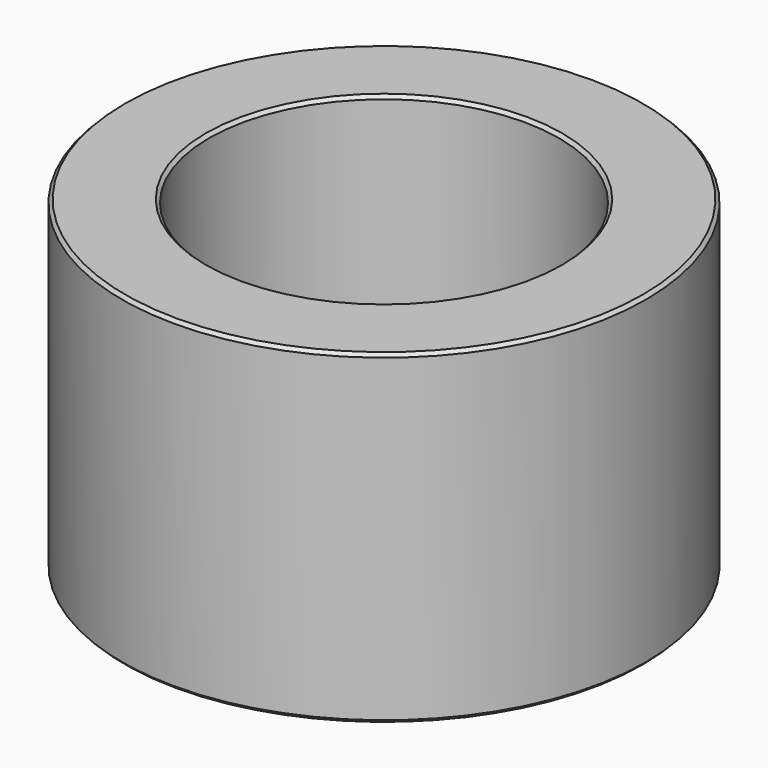
from build123d import *

# Parameters (mm, degrees)
F0_R     = 40.239299
F1_DEPTH = 50
F2_R     = 26.870231
F3_DEPTH = 62
F4_SIZE  = 0.5


with BuildPart() as f1:
    # F0 (on Top) → F1 (new body)
    with BuildSketch(Plane.XY):
        Circle(F0_R)
        Circle(F0_R)
    extrude(amount=F1_DEPTH)

    # F2 (on face) → F3 (cut)
    with BuildSketch(Plane.XY.offset(50)):
        Circle(F2_R)
    extrude(amount=-F3_DEPTH, mode=Mode.SUBTRACT)

    # F4
    f4_edges = [f1.edges().sort_by_distance(p)[0] for p in [
        (-40.239299, 0, 50),
        (-26.870231, 0, 50),
        (-40.239299, 0, 0),
        (-26.870231, 0, 0),
    ]]
    chamfer(f4_edges, length=F4_SIZE)


solid = f1.part
